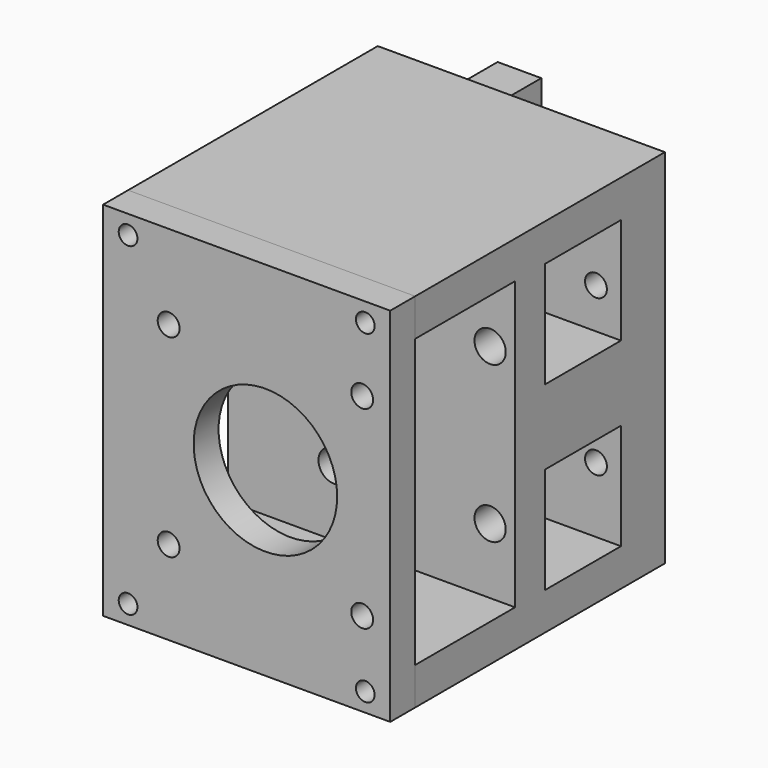
from build123d import *

# Parameters (mm, degrees)
F0_W      = 46
F0_H      = 58
F0_R      = 1.75
F1_DEPTH  = 30
F2_W      = 15.2
F2_H      = 17
F3_DEPTH  = 46.001
F4_W      = 46
F4_H      = 6
F5_DEPTH  = 20
F6_W      = 46
F6_H      = 6
F6_H_2    = 47.4574649807
F6_R      = 1.75
F6_R_2    = 11.5
F6_H_3    = 4.5425350193
F7_DEPTH  = 5
F8_R      = 2.5
F9_DEPTH  = 10
F10_R     = 1.5
F11_DEPTH = 10
F12_DEPTH = 5.001
F13_W     = 12
F13_H     = 58
F14_DEPTH = 24
F16_DEPTH = 6
F18_DEPTH = 46.001
F19_W     = 7
F19_H     = 34
F20_DEPTH = 5


with BuildPart() as f1:
    # F0 (on Front) → F1 (new body)
    with BuildSketch(Plane.XZ):
        with Locations((23, 29)):
            Rectangle(F0_W, F0_H)
        with Locations((17, 16.5)):
            Circle(F0_R, mode=Mode.SUBTRACT)
        with Locations((42, 16.5)):
            Circle(F0_R, mode=Mode.SUBTRACT)
        with Locations((17, 41.5)):
            Circle(F0_R, mode=Mode.SUBTRACT)
        with Locations((42, 41.5)):
            Circle(F0_R, mode=Mode.SUBTRACT)
    extrude(amount=F1_DEPTH)

    # F2 (on face) → F3 (cut, through all)
    with BuildSketch(Plane(origin=(0, 0, 0), x_dir=(0, -1, 0), z_dir=(-1, 0, 0))):
        with Locations((16.4, 14.5)):
            Rectangle(F2_W, F2_H)
        with Locations((16.4, 43.5)):
            Rectangle(F2_W, F2_H)
    extrude(amount=-F3_DEPTH, mode=Mode.SUBTRACT)

    # F4 (on face) → F5 (join)
    with BuildSketch(Plane.XZ.offset(30)):
        with Locations((23, 55)):
            Rectangle(F4_W, F4_H)
        with Locations((23, 3)):
            Rectangle(F4_W, F4_H)
    extrude(amount=F5_DEPTH)

    # F8 (on face) → F9 (cut)
    with BuildSketch(Plane.XZ.offset(30)):
        with Locations((17, 41.5)):
            Circle(F8_R)
        with Locations((17, 16.5)):
            Circle(F8_R)
        with Locations((42, 41.5)):
            Circle(F8_R)
        with Locations((42, 16.5)):
            Circle(F8_R)
    extrude(amount=-F9_DEPTH, mode=Mode.SUBTRACT)

    # F10 (on face) → F11 (cut)
    with BuildSketch(Plane.XZ.offset(50)):
        with Locations((42, 3)):
            Circle(F10_R)
        with Locations((4, 3)):
            Circle(F10_R)
        with Locations((42, 55)):
            Circle(F10_R)
        with Locations((4, 55)):
            Circle(F10_R)
    extrude(amount=-F11_DEPTH, mode=Mode.SUBTRACT)

    # F13 (on face) → F14 (join)
    with BuildSketch(Plane(origin=(0, 0, 0), x_dir=(-1, 0, 0), z_dir=(0, 1, 0))):
        with Locations((-6, 29)):
            Rectangle(F13_W, F13_H)
    extrude(amount=F14_DEPTH)

    # F15 (on face) → F16 (cut)
    with BuildSketch(Plane(origin=(0, 0, 0), x_dir=(0, -1, 0), z_dir=(-1, 0, 0))):
        with BuildLine():
            ThreePointArc((-16, 32), (-21.6568542495, 34.3431457505), (-24, 40))
            Line((-24, 40), (-24, 34))
            ThreePointArc((-24, 34), (-20.472135955, 31.05572809), (-16, 30))
            Line((-16, 30), (-16, 31))
            Line((-16, 31), (-15, 31))
            Line((-15, 31), (-15, 30))
            Line((-15, 30), (-14, 30))
            Line((-14, 30), (-14, 31))
            Line((-14, 31), (-13, 31))
            Line((-13, 31), (-13, 30))
            Line((-13, 30), (-12, 30))
            Line((-12, 30), (-12, 31))
            Line((-12, 31), (-11, 31))
            Line((-11, 31), (-11, 30))
            Line((-11, 30), (-10, 30))
            Line((-10, 30), (-10, 31))
            Line((-10, 31), (-9, 31))
            Line((-9, 31), (-9, 30))
            Line((-9, 30), (-8, 30))
            Line((-8, 30), (-8, 31))
            Line((-8, 31), (-7, 31))
            Line((-7, 31), (-7, 30))
            Line((-7, 30), (-6, 30))
            Line((-6, 30), (-6, 31))
            Line((-6, 31), (-5, 31))
            Line((-5, 31), (-5, 30))
            Line((-5, 30), (-4, 30))
            Line((-4, 30), (-4, 31))
            Line((-4, 31), (-3, 31))
            Line((-3, 31), (-3, 30))
            Line((-3, 30), (-2, 30))
            Line((-2, 30), (-2, 31))
            Line((-2, 31), (-1, 31))
            Line((-1, 31), (-1, 30))
            Line((-1, 30), (0, 30))
            Line((0, 30), (0, 31))
            Line((0, 31), (1, 31))
            Line((1, 31), (1, 30))
            Line((1, 30), (2, 30))
            Line((2, 30), (2, 31))
            Line((2, 31), (3, 31))
            Line((3, 31), (3, 30))
            Line((3, 30), (4, 30))
            Line((4, 30), (4, 32))
            Line((4, 32), (-16, 32))
        make_face()
        with BuildLine():
            Line((-2, 28), (-3, 28))
            Line((-3, 28), (-3, 27))
            Line((-3, 27), (-4, 27))
            Line((-4, 27), (-4, 28))
            Line((-4, 28), (-5, 28))
            Line((-5, 28), (-5, 27))
            Line((-5, 27), (-6, 27))
            Line((-6, 27), (-6, 28))
            Line((-6, 28), (-7, 28))
            Line((-7, 28), (-7, 27))
            Line((-7, 27), (-8, 27))
            Line((-8, 27), (-8, 28))
            Line((-8, 28), (-9, 28))
            Line((-9, 28), (-9, 27))
            Line((-9, 27), (-10, 27))
            Line((-10, 27), (-10, 28))
            Line((-10, 28), (-11, 28))
            Line((-11, 28), (-11, 27))
            Line((-11, 27), (-12, 27))
            Line((-12, 27), (-12, 28))
            Line((-12, 28), (-13, 28))
            Line((-13, 28), (-13, 27))
            Line((-13, 27), (-14, 27))
            Line((-14, 27), (-14, 28))
            Line((-14, 28), (-15, 28))
            Line((-15, 28), (-15, 27))
            Line((-15, 27), (-16, 27))
            Line((-16, 27), (-16, 28))
            ThreePointArc((-16, 28), (-20.472135955, 26.94427191), (-24, 24))
            Line((-24, 24), (-24, 18))
            ThreePointArc((-24, 18), (-21.6568542495, 23.6568542495), (-16, 26))
            Line((-16, 26), (4, 26))
            Line((4, 26), (4, 28))
            Line((4, 28), (3, 28))
            Line((3, 28), (3, 27))
            Line((3, 27), (2, 27))
            Line((2, 27), (2, 28))
            Line((2, 28), (1, 28))
            Line((1, 28), (1, 27))
            Line((1, 27), (0, 27))
            Line((0, 27), (0, 28))
            Line((0, 28), (-1, 28))
            Line((-1, 28), (-1, 27))
            Line((-1, 27), (-2, 27))
            Line((-2, 27), (-2, 28))
        make_face()
    extrude(amount=-F16_DEPTH, mode=Mode.SUBTRACT)

    # F17 (on face) → F18 (cut, through all)
    with BuildSketch(Plane(origin=(0, 0, 0), x_dir=(0, -1, 0), z_dir=(-1, 0, 0))):
        Polygon((-24, 58), (-24, 46), (-5, 46), (0, 58), align=None)
        Polygon((-24, 12), (-24, 0), (0, 0), (-5, 12), align=None)
    extrude(amount=-F18_DEPTH, mode=Mode.SUBTRACT)

    # F19 (on face) → F20 (cut)
    with BuildSketch(Plane.YZ.offset(12)):
        with Locations((20.5, 29)):
            Rectangle(F19_W, F19_H)
    extrude(amount=-F20_DEPTH, mode=Mode.SUBTRACT)


with BuildPart() as f7:
    # F6 (on face) → F7 (new body)
    with BuildSketch(Plane.XZ.offset(50)):
        with Locations((23, 55)):
            Rectangle(F6_W, F6_H)
        with Locations((23, 28.2712675097)):
            Rectangle(F6_W, F6_H_2)
        with Locations((10.5, 13.5)):
            Circle(F6_R, mode=Mode.SUBTRACT)
        with Locations((41.5, 13.5)):
            Circle(F6_R, mode=Mode.SUBTRACT)
        with Locations((10.5, 44.5)):
            Circle(F6_R, mode=Mode.SUBTRACT)
        with Locations((26, 29)):
            Circle(F6_R_2, mode=Mode.SUBTRACT)
        with Locations((41.5, 44.5)):
            Circle(F6_R, mode=Mode.SUBTRACT)
        with Locations((23, 2.2712675097)):
            Rectangle(F6_W, F6_H_3)
    extrude(amount=F7_DEPTH)

    # F10 (on face) → F12 (cut, through all)
    with BuildSketch(Plane.XZ.offset(50)):
        with Locations((42, 3)):
            Circle(F10_R)
        with Locations((4, 3)):
            Circle(F10_R)
        with Locations((42, 55)):
            Circle(F10_R)
        with Locations((4, 55)):
            Circle(F10_R)
    extrude(amount=F12_DEPTH, mode=Mode.SUBTRACT)


solid = Compound([f1.part, f7.part])
